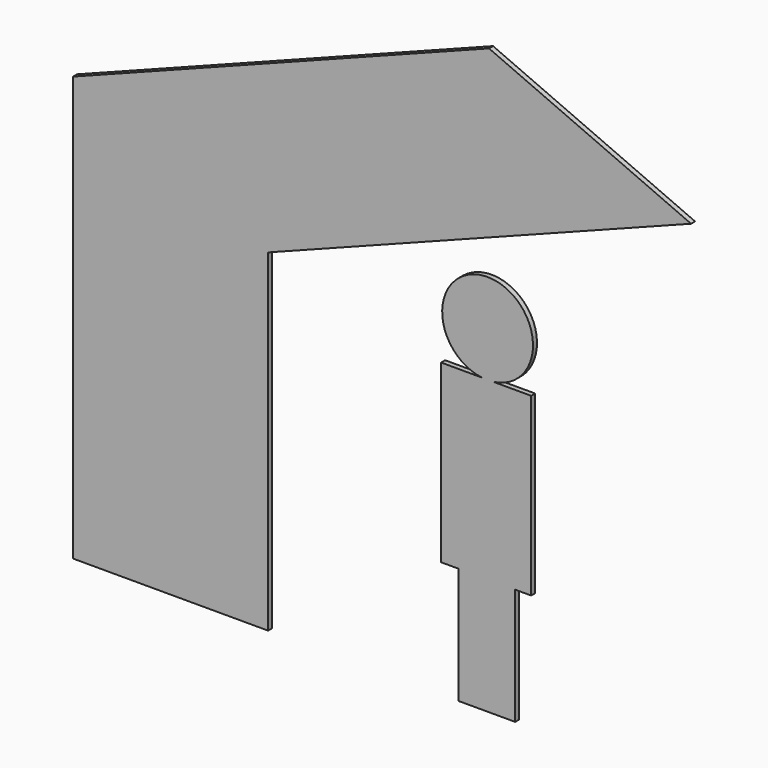
from build123d import *

# Parameters (mm, degrees)
F2_DEPTH = 25
F0_W     = 282.1830511093
F0_H     = 579.6789526939
F3_DEPTH = 25


with BuildPart() as f2:
    # F1 (on Front) → F2 (new body)
    with BuildSketch(Plane.XZ):
        Polygon((-1579.8434172484, 0), (-608.0491542816, 0), (-608.0491542816, 1657.763004303), (1497.4708557129, 2468.1348800659), (491.7413294315, 2909.4982147217), (-1579.8434172484, 2112.1873323742), align=None)
    extrude(amount=F2_DEPTH)


with BuildPart() as f3:
    # F0 (on Front) → F3 (new body)
    with BuildSketch(Plane.XZ):
        with BuildLine():
            Line((252.9710233212, 579.6789526939), (339.796602726, 579.6789526939))
            Line((339.796602726, 579.6789526939), (621.9796538353, 579.6789526939))
            Line((621.9796538353, 579.6789526939), (701.5697956085, 579.6789526939))
            Line((701.5697956085, 579.6789526939), (701.5697956085, 1455.1701545715))
            Line((701.5697956085, 1455.1701545715), (512.5289377179, 1455.1701545715))
            ThreePointArc((512.5289377179, 1455.1701545715), (484.5058619976, 1453.4263863019), (456.4827862773, 1455.1701545715))
            Line((456.4827862773, 1455.1701545715), (252.9710233212, 1455.1701545715))
            Line((252.9710233212, 1455.1701545715), (252.9710233212, 579.6789526939))
        make_face()
        with Locations((480.8881282806, 289.839476347)):
            Rectangle(F0_W, F0_H)
        with BuildLine():
            ThreePointArc((710.5489419051, 1679.4694662094), (334.9046393593, 1848.9243220241), (456.4827862773, 1455.1701545715))
            Line((456.4827862773, 1455.1701545715), (512.5289377179, 1455.1701545715))
            ThreePointArc((512.5289377179, 1455.1701545715), (653.9607178123, 1529.8682435711), (710.5489419051, 1679.4694662094))
        make_face()
        with BuildLine():
            Line((512.5289377179, 1455.1701545715), (456.4827862773, 1455.1701545715))
            ThreePointArc((456.4827862773, 1455.1701545715), (484.5058619976, 1453.4263863019), (512.5289377179, 1455.1701545715))
        make_face()
    extrude(amount=F3_DEPTH)


solid = Compound([f2.part, f3.part])
